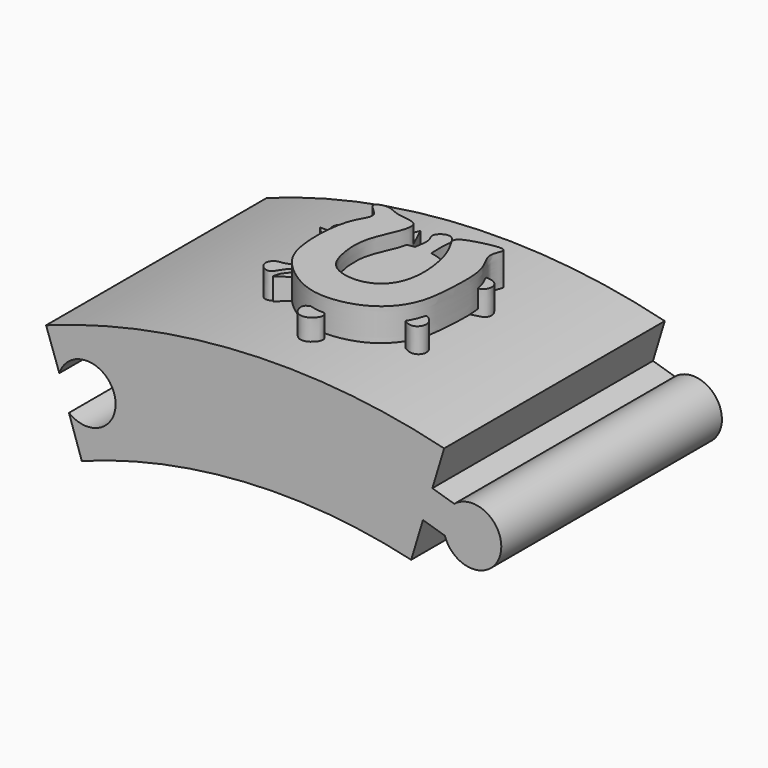
from build123d import *

# Parameters (mm, degrees)
F0_W      = 12
F0_H      = 4.4
F1_DEPTH  = 17
F2_DEPTH  = 15
F4_DEPTH  = 1
F7_DEPTH  = 2
F10_DEPTH = 2
F13_DEPTH = 2


with BuildPart() as f1:
    # F0 (on Front) → F1 (new body)
    with BuildSketch(Plane.XZ):
        with BuildLine():
            ThreePointArc((-12.1923520637, 32.8077209077), (-2.1325384341, 34.9349721601), (8.1113264025, 34.0471200543))
            Line((8.1113264025, 34.0471200543), (8.8377530777, 36.4448013402))
            Line((8.8377530777, 36.4448013402), (10.1879836213, 36.0357213302))
            ThreePointArc((10.1879836213, 36.0357213302), (13.5907588461, 36.0496689401), (10.7678935537, 37.9498019111))
            Line((10.7678935537, 37.9498019111), (9.4176630102, 38.3588819212))
            Line((9.4176630102, 38.3588819212), (10.1440896854, 40.7565632071))
            ThreePointArc((10.1440896854, 40.7565632071), (-2.2226399951, 41.9411477126), (-14.3949022294, 39.4561375429))
            Line((-14.3949022294, 39.4561375429), (-13.5780202061, 37.1222227569))
            ThreePointArc((-13.5780202061, 37.1222227569), (-12.3900822818, 38.2732830539), (-10.7678935537, 37.9498019111))
            ThreePointArc((-10.7678935537, 37.9498019111), (-10.183695412, 37.0819086198), (-10.1879836213, 36.0357213302))
            ThreePointArc((-10.1879836213, 36.0357213302), (-11.3578738217, 34.866322665), (-12.9848978468, 35.1645325595))
            Line((-12.9848978468, 35.1645325595), (-12.1923520637, 32.8077209077))
        make_face()
        with Locations((0, 38.2)):
            Rectangle(F0_W, F0_H, mode=Mode.SUBTRACT)
        with Locations((0, 38.2)):
            Rectangle(F0_W, F0_H)
    extrude(amount=F1_DEPTH)

    # F0 (on Front) → F2 (cut)
    with BuildSketch(Plane.XZ):
        with Locations((0, 38.2)):
            Rectangle(F0_W, F0_H)
    extrude(amount=F2_DEPTH, mode=Mode.SUBTRACT)


with BuildPart() as f4:
    # F3 (on Top) → F4 (new body)
    with BuildSketch(Plane.XY):
        with BuildLine():
            add(Edge.make_bspline(
                [(-0.9902374586, -5.4487306625), (-0.5751143845, -5.2493825689), (0.0929273703, -4.8817477397), (1.2767407387, -5.0094933214), (2.0860887769, -5.7551788), (2.4116366659, -6.8162351159), (1.9954049534, -8.1713127659), (0.6700161612, -9.5679555088), (-0.9902374586, -10.6000043452)],
                knots=[0, 0, 0, 0, 0.152529537, 0.2958400295, 0.4363758108, 0.5755166192, 0.7250907689, 1, 1, 1, 1], degree=3))
            add(Edge.make_bspline(
                [(-0.9902374586, -5.4487306625), (-1.4810849223, -5.1244209951), (-2.183806834, -4.8420510024), (-3.1641256186, -5.1082585099), (-3.8698464974, -5.9557531113), (-4.1612005029, -6.8398625399), (-4.0423546554, -8.1924129715), (-2.1764512428, -9.6410950098), (-0.9902374586, -10.6000043452)],
                knots=[0, 0, 0, 0, 0.1628687819, 0.2959977961, 0.4402328833, 0.5728073677, 0.7223022631, 1, 1, 1, 1], degree=3))
        make_face()
    extrude(amount=F4_DEPTH)


with BuildPart() as f4_1:
    # F5: moved
    add(f4.part.moved(Location((0.18, 0, 41.8))))


with BuildPart() as f7:
    # F6 (on Top) → F7 (new body)
    with BuildSketch(Plane.XY):
        Polygon((-0.8189323707, -6.2615415081), (-2.0999384578, -3.530975664), (-3.212391166, -6.2615415081), (-6.111510098, -6.2615415081), (-3.9203157648, -8.4527358413), (-4.695661366, -11.6552514955), (-2.0999384578, -9.9360067397), (0.8328915574, -11.8238050491), (0, -8.6212893948), (2.1476082038, -6.2615415081), align=None)
    extrude(amount=F7_DEPTH)


with BuildPart() as f7_1:
    # F8: moved
    add(f7.part.moved(Location((0, 0, 41.1))))


with BuildPart() as f10:
    # F9 (on Top) → F10 (new body)
    with BuildSketch(Plane.XY):
        with BuildLine():
            add(Edge.make_bspline(
                [(-3.7852673344, -7.3076897283), (-4.1206376171, -7.0757991661), (-4.6557628612, -6.7060852249), (-5.0867441246, -6.9119749744), (-5.4652458542, -6.4264404589), (-5.4627293018, -5.74679714), (-4.8643521765, -5.566661472), (-4.3207312989, -5.642202662), (-4.3864744436, -6.1210770192), (-3.786313495, -6.317502269), (-3.519473101, -6.5325828854), (-3.3868569265, -6.6395398915)],
                knots=[0, 0, 0, 0, 0.1546471193, 0.2463559987, 0.3556885213, 0.4718052431, 0.5849888216, 0.6869850886, 0.7763099186, 0.8896152673, 1, 1, 1, 1], degree=3))
            ThreePointArc((-3.7852673344, -7.3076897283), (-4.0954994318, -8.6397192248), (-3.8700887503, -9.9886953397))
            add(Edge.make_bspline(
                [(-3.6594786812, -10.4425249944), (-3.9629187938, -10.6134357081), (-4.5324781835, -10.933391849), (-4.8246707987, -11.877231439), (-5.7550830281, -11.3371361474), (-5.4755026828, -10.5532109072), (-4.8115258524, -10.6271577973), (-4.2178097849, -10.2245670512), (-3.8700887503, -9.9886953397)],
                knots=[0, 0, 0, 0, 0.1891157558, 0.3522134427, 0.5117438089, 0.6576210433, 0.7991558302, 1, 1, 1, 1], degree=3))
            ThreePointArc((-3.6594786812, -10.4425249944), (-2.5627609539, -11.6409935561), (-1.0423434806, -12.2132237313))
            add(Edge.make_bspline(
                [(-0.323644169, -12.2289922676), (-0.4134433002, -12.5528037781), (-0.5785179747, -13.1513842814), (0.2112726717, -13.5116339384), (-0.2945864583, -14.3311774336), (-1.2138525447, -14.3891123409), (-1.5482400048, -13.3658021212), (-0.8712620739, -13.2514562806), (-0.97812313, -12.5983104595), (-1.0423434806, -12.2132237313)],
                knots=[0, 0, 0, 0, 0.1566627423, 0.2880524831, 0.4297954388, 0.5767866473, 0.7244399832, 0.835747346, 1, 1, 1, 1], degree=3))
            ThreePointArc((-0.323644169, -12.2289922676), (1.3016656472, -12.0242939161), (2.4259190541, -10.8328294009))
            add(Edge.make_bspline(
                [(2.6513264982, -10.0020113659), (2.9645590625, -10.2892873078), (3.4852165056, -10.7661121801), (3.9315889654, -10.435820736), (4.6288109882, -11.0952774805), (4.2203198986, -11.9156095526), (3.3977255802, -11.7034104167), (3.1857690318, -11.1308356106), (2.6816099815, -10.9233079399), (2.4259190541, -10.8328294009)],
                knots=[0, 0, 0, 0, 0.1772703117, 0.286444086, 0.4352425751, 0.5776299824, 0.7179563478, 0.8477865193, 1, 1, 1, 1], degree=3))
            ThreePointArc((2.6513264982, -10.0020113659), (2.8832906799, -8.794100691), (2.6818568303, -7.5807252403))
            add(Edge.make_bspline(
                [(2.2769775577, -6.783740397), (2.6163752345, -6.6424916681), (3.2312676535, -6.3859414105), (3.2856830429, -5.5351490171), (4.5047547139, -5.7009308267), (4.5405188365, -6.6839937826), (3.7495475527, -6.8674840832), (3.2582113622, -7.1241612376), (2.8822028101, -7.4224286975), (2.6818568303, -7.5807252403)],
                knots=[0, 0, 0, 0, 0.1652018713, 0.2979600233, 0.4545310356, 0.5932717831, 0.7324852305, 0.8580657998, 1, 1, 1, 1], degree=3))
            ThreePointArc((2.2769775577, -6.783740397), (1.2871128515, -5.8182189502), (0, -5.3128435367))
            add(Edge.make_bspline(
                [(-1.0197091546, -5.2841913097), (-0.9501314364, -4.9020989576), (-0.8317424517, -4.2572304521), (-1.2992572893, -3.7848539197), (-0.4981516305, -3.1123591156), (0.1066365938, -3.7453661101), (-0.0403980236, -4.2341016875), (-0.0151985367, -4.9070135853), (0, -5.3128435367)],
                knots=[0, 0, 0, 0, 0.1981841919, 0.3358401711, 0.5031144857, 0.6612234811, 0.7958010197, 1, 1, 1, 1], degree=3))
            ThreePointArc((-1.0197091546, -5.2841913097), (-2.3411618836, -5.7210569995), (-3.3868569265, -6.6395398915))
        make_face()
    extrude(amount=F10_DEPTH)


with BuildPart() as f10_1:
    # F11: moved
    add(f10.part.moved(Location((0, 0, 50.4))))


with BuildPart() as f13:
    # F12 (on Top) → F13 (new body)
    with BuildSketch(Plane.XY):
        with BuildLine():
            add(Edge.make_bspline(
                [(-1.4687045477, -4.8590269871), (-1.2358206074, -5.2625700999), (-2.3183802052, -7.1652228987), (-2.3747284005, -8.7721851124), (-1.9447783295, -10.7966745428), (0.0323073606, -11.2822773293), (1.6326696144, -10.5640440918), (2.2616509818, -8.5344438895), (1.6699349807, -5.808559553), (0.7293916265, -4.8049328876), (2.2281902609, -4.2905423094), (3.9764028948, -3.9729225572), (3.1560754045, -5.1019729324), (4.2008305851, -6.2979959795), (4.1104684966, -8.8084309108), (3.9449471169, -11.0833550558), (2.5682604196, -12.8270405561), (0.5072928569, -13.4785847069), (-1.4777857681, -13.3471618168), (-3.5887992263, -11.8510990344), (-4.4857619697, -10.0380696671), (-4.3620182747, -6.425430555), (-3.1755153318, -5.2570659827), (-4.6437684027, -4.4675742184), (-3.4752404191, -4.044618245), (-2.8200247722, -4.6228683171), (-1.6443160481, -4.5547260061), (-1.4687045477, -4.8590269871)],
                knots=[0, 0, 0, 0, 0.0464319877, 0.0880645187, 0.1294020087, 0.1702619515, 0.2087851971, 0.2523026862, 0.3040622733, 0.3339663859, 0.3694688122, 0.404893958, 0.4317587312, 0.4683328698, 0.5168472556, 0.5635522968, 0.6077107423, 0.6519401912, 0.694951652, 0.7427001118, 0.7867872238, 0.8445386214, 0.8791892267, 0.9094727542, 0.9349264613, 0.96498689, 1, 1, 1, 1], degree=3))
        make_face()
    extrude(amount=F13_DEPTH)


with BuildPart() as f10_2:
    # F14: moved
    add(f10_1.part.moved(Location((0, 0, -9.1))))


with BuildPart() as f13_1:
    # F15: moved
    add(f13.part.moved(Location((0, 0, 42.2))))


solid = Compound([f1.part, f4_1.part, f7_1.part, f10_2.part, f13_1.part])
